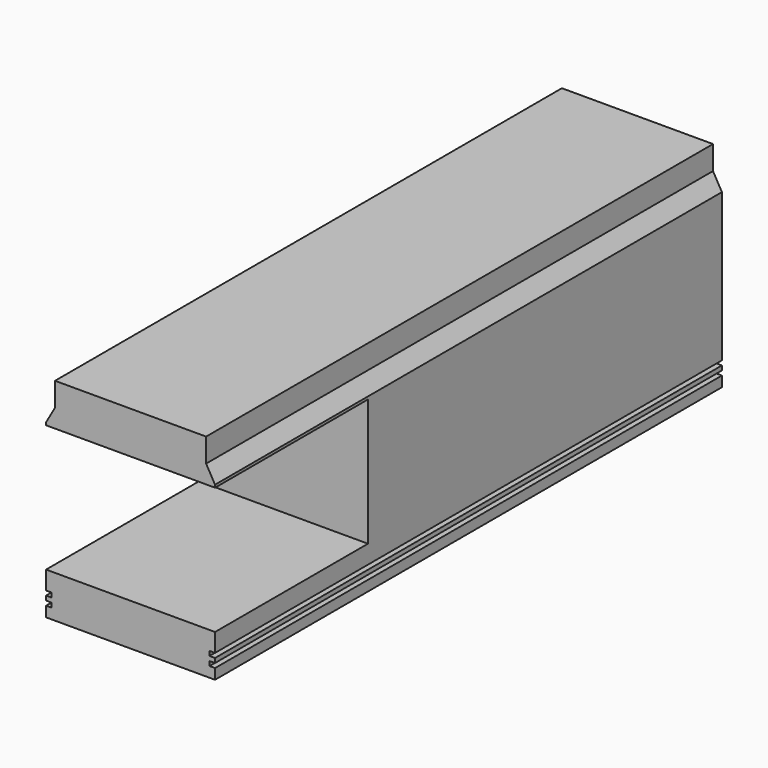
from build123d import *

# Parameters (mm, degrees)
F0_W     = 80
F0_H     = 300
F1_DEPTH = 100
F3_W     = 90.5103512108
F3_H     = 60.133138299
F4_DEPTH = 128
F2_W     = 2.603494525
F2_H     = 2.1046474576
F5_DEPTH = 322.9


with BuildPart() as f1:
    # F0 (on Top) → F1 (new body)
    with BuildSketch(Plane.XY):
        Rectangle(F0_W, F0_H)
    extrude(amount=F1_DEPTH)

    # F3 (on face) → F4 (cut)
    with BuildSketch(Plane.YZ.offset(40)):
        with Locations((-104.7448243946, 50)):
            Rectangle(F3_W, F3_H)
    extrude(amount=-F4_DEPTH, mode=Mode.SUBTRACT)

    # F2 (on face) → F5 (cut)
    with BuildSketch(Plane.XZ.offset(150)):
        Polygon((40, 100), (35.7759818435, 100), (35.7759818435, 88.739156723), (40, 81.3345983624), align=None)
        Polygon((-35.7759818435, 88.739156723), (-35.7759818435, 100), (-40, 100), (-40, 81.3345983624), align=None)
        with Locations((38.6982527375, 10.1477000862)):
            Rectangle(F2_W, F2_H)
        with Locations((38.6982527375, 5.938405171)):
            Rectangle(F2_W, F2_H)
        with Locations((-38.6982527375, 5.938405171)):
            Rectangle(F2_W, F2_H)
        with Locations((-38.6982527375, 10.1477000862)):
            Rectangle(F2_W, F2_H)
    extrude(amount=-F5_DEPTH, mode=Mode.SUBTRACT)


solid = f1.part
